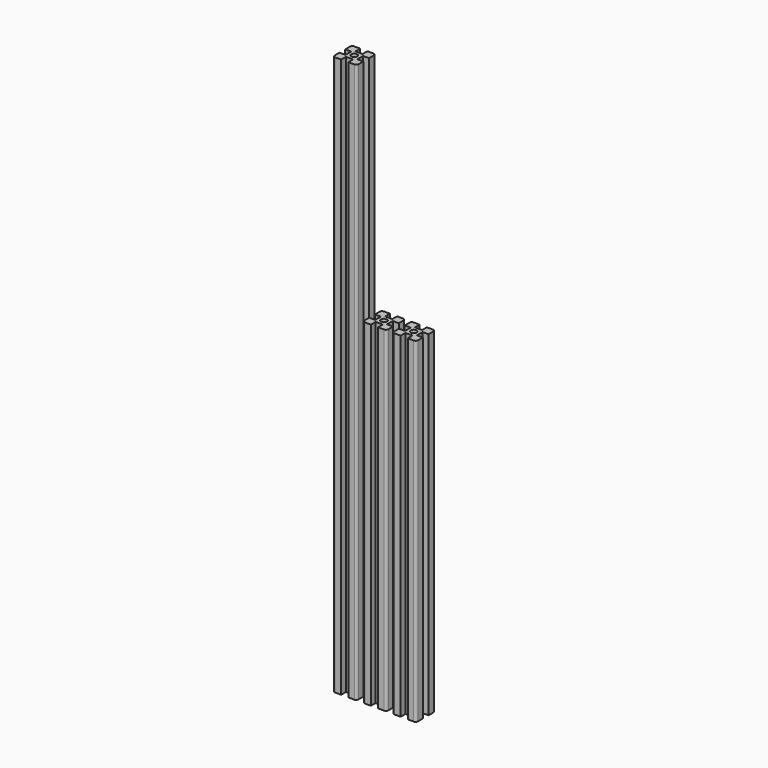
from build123d import *

# Parameters (mm, degrees)
F0_R     = 2.5
F1_DEPTH = 470
F3_DEPTH = 188
F4_W     = 24.158735
F4_H     = 25.46968
F5_DEPTH = 188


with BuildPart() as f1:
    # F0 (on Top) → F1 (new body)
    with BuildSketch(Plane.XY):
        with BuildLine():
            ThreePointArc((10, 8), (9.414214, 9.414214), (8, 10))
            Line((8, 10), (3, 10))
            Line((3, 10), (3, 5))
            Line((3, 5), (-3, 5))
            Line((-3, 5), (-3, 10))
            Line((-3, 10), (-8, 10))
            ThreePointArc((-8, 10), (-9.414214, 9.414214), (-10, 8))
            Line((-10, 8), (-10, 3))
            Line((-10, 3), (-5, 3))
            Line((-5, 3), (-5, -3))
            Line((-5, -3), (-10, -3))
            Line((-10, -3), (-10, -8))
            ThreePointArc((-10, -8), (-9.414214, -9.414214), (-8, -10))
            Line((-8, -10), (-3, -10))
            Line((-3, -10), (-3, -5))
            Line((-3, -5), (3, -5))
            Line((3, -5), (3, -10))
            Line((3, -10), (8, -10))
            ThreePointArc((8, -10), (9.414214, -9.414214), (10, -8))
            Line((10, -8), (10, -3))
            Line((10, -3), (5, -3))
            Line((5, -3), (5, 3))
            Line((5, 3), (10, 3))
            Line((10, 3), (10, 8))
        make_face()
        Circle(F0_R, mode=Mode.SUBTRACT)
        with BuildLine():
            Line((20, -3), (15, -3))
            Line((15, -3), (15, -8))
            ThreePointArc((15, -8), (15.585786, -9.414214), (17, -10))
            Line((17, -10), (22, -10))
            Line((22, -10), (22, -5))
            Line((22, -5), (28, -5))
            Line((28, -5), (28, -10))
            Line((28, -10), (33, -10))
            ThreePointArc((33, -10), (34.414214, -9.414214), (35, -8))
            Line((35, -8), (35, -3))
            Line((35, -3), (30, -3))
            Line((30, -3), (30, 3))
            Line((30, 3), (35, 3))
            Line((35, 3), (35, 8))
            ThreePointArc((35, 8), (34.414214, 9.414214), (33, 10))
            Line((33, 10), (28, 10))
            Line((28, 10), (28, 5))
            Line((28, 5), (22, 5))
            Line((22, 5), (22, 10))
            Line((22, 10), (17, 10))
            ThreePointArc((17, 10), (15.585786, 9.414214), (15, 8))
            Line((15, 8), (15, 3))
            Line((15, 3), (20, 3))
            Line((20, 3), (20, -3))
        make_face()
        with Locations((25, 0)):
            Circle(F0_R, mode=Mode.SUBTRACT)
        with BuildLine():
            Line((45, -3), (40, -3))
            Line((40, -3), (40, -8))
            ThreePointArc((40, -8), (40.585786, -9.414214), (42, -10))
            Line((42, -10), (47, -10))
            Line((47, -10), (47, -5))
            Line((47, -5), (53, -5))
            Line((53, -5), (53, -10))
            Line((53, -10), (58, -10))
            ThreePointArc((58, -10), (59.414214, -9.414214), (60, -8))
            Line((60, -8), (60, -3))
            Line((60, -3), (55, -3))
            Line((55, -3), (55, 3))
            Line((55, 3), (60, 3))
            Line((60, 3), (60, 8))
            ThreePointArc((60, 8), (59.414214, 9.414214), (58, 10))
            Line((58, 10), (53, 10))
            Line((53, 10), (53, 5))
            Line((53, 5), (47, 5))
            Line((47, 5), (47, 10))
            Line((47, 10), (42, 10))
            ThreePointArc((42, 10), (40.585786, 9.414214), (40, 8))
            Line((40, 8), (40, 3))
            Line((40, 3), (45, 3))
            Line((45, 3), (45, -3))
        make_face()
        with Locations((50, 0)):
            Circle(F0_R, mode=Mode.SUBTRACT)
    extrude(amount=F1_DEPTH)

    # F2 (on face) → F3 (cut)
    with BuildSketch(Plane.XY.offset(470)):
        Polygon((37.811764, 13.164037), (11.994491, 13.164037), (11.994491, -12.443597), (12.309452, -12.443597), (37.811764, -12.443597), align=None)
    extrude(amount=-F3_DEPTH, mode=Mode.SUBTRACT)

    # F4 (on face) → F5 (cut)
    with BuildSketch(Plane.XY.offset(470)):
        with Locations((50.190249, 1.123662)):
            Rectangle(F4_W, F4_H)
    extrude(amount=-F5_DEPTH, mode=Mode.SUBTRACT)


solid = f1.part
